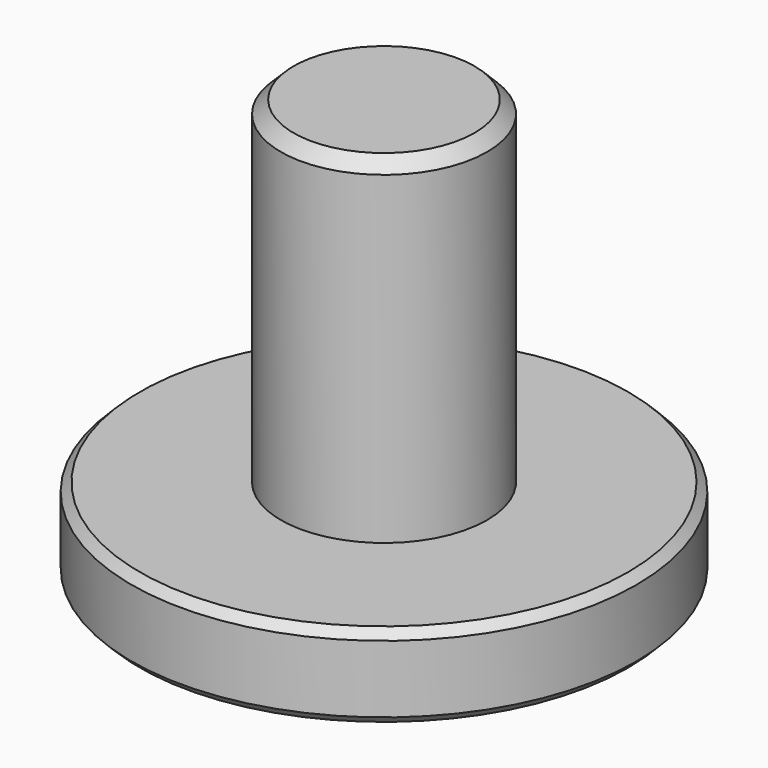
from build123d import *

# Parameters (mm, degrees)
F0_R     = 6
F1_DEPTH = 2
F2_R     = 2.45
F3_DEPTH = 8
F4_SIZE  = 0.3
F5_SIZE  = 0.2


with BuildPart() as f1:
    # F0 (on Top) → F1 (new body)
    with BuildSketch(Plane.XY):
        Circle(F0_R)
    extrude(amount=F1_DEPTH)

    # F2 (on face) → F3 (join)
    with BuildSketch(Plane.XY.offset(2)):
        Circle(F2_R)
    extrude(amount=F3_DEPTH)

    # F4
    f4_edges = [f1.edges().sort_by_distance(p)[0] for p in [
        (-2.45, 0, 10),
    ]]
    chamfer(f4_edges, length=F4_SIZE)

    # F5
    f5_edges = [f1.edges().sort_by_distance(p)[0] for p in [
        (-6, 0, 2),
        (-6, 0, 0),
    ]]
    chamfer(f5_edges, length=F5_SIZE)


solid = f1.part
